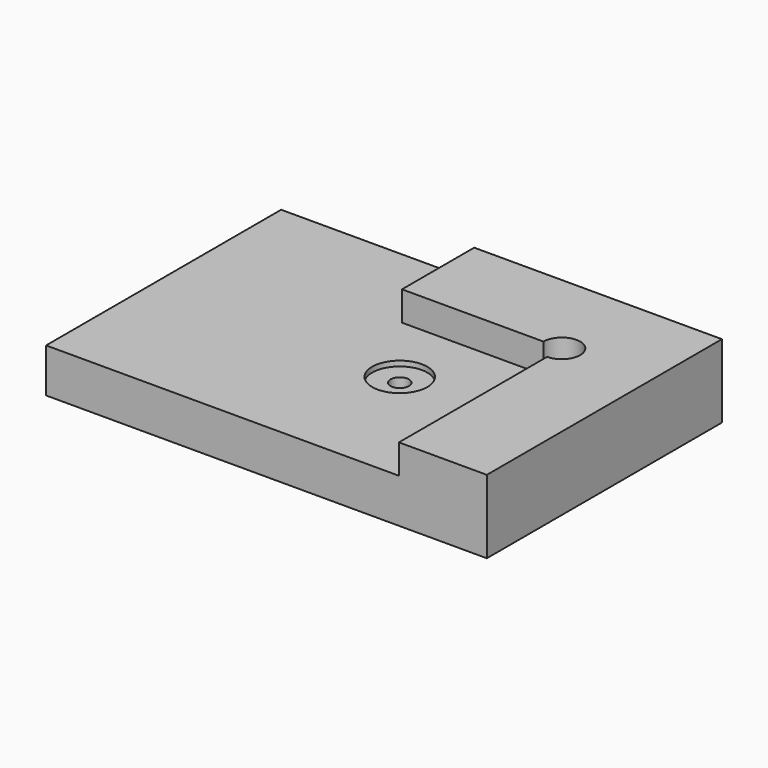
from build123d import *

# Parameters (mm, degrees)
F0_W     = 76.2
F0_H     = 50.8
F1_DEPTH = 12.7
F3_DEPTH = 5.08
F4_R     = 1.5875
F5_DEPTH = 25.4
F6_R     = 4.7625
F7_DEPTH = 0.889


with BuildPart() as f1:
    # F0 (on Top) → F1 (new body)
    with BuildSketch(Plane.XY):
        with Locations((1.773075, -0.713211)):
            Rectangle(F0_W, F0_H)
    extrude(amount=F1_DEPTH)

    # F2 (on face) → F3 (cut)
    with BuildSketch(Plane.XY.offset(12.7)):
        with BuildLine():
            Line((-2.955125, 9.086431), (-2.955125, 24.686789))
            Line((-2.955125, 24.686789), (-36.326925, 24.686789))
            Line((-36.326925, 24.686789), (-36.326925, -26.113211))
            Line((-36.326925, -26.113211), (24.675291, -26.113211))
            Line((24.675291, -26.113211), (24.675291, 5.911431))
            ThreePointArc((24.675291, 5.911431), (26.920355, 11.331495), (21.500291, 9.086431))
            Line((21.500291, 9.086431), (-2.955125, 9.086431))
        make_face()
    extrude(amount=-F3_DEPTH, mode=Mode.SUBTRACT)

    # F4 (on face) → F5 (cut)
    with BuildSketch(Plane.XY.offset(7.62)):
        with Locations((6.704791, -3.472849)):
            Circle(F4_R)
    extrude(amount=-F5_DEPTH, mode=Mode.SUBTRACT)

    # F6 (on face) → F7 (cut)
    with BuildSketch(Plane.XY.offset(7.62)):
        with Locations((6.704791, -3.472849)):
            Circle(F6_R)
    extrude(amount=-F7_DEPTH, mode=Mode.SUBTRACT)


solid = f1.part
